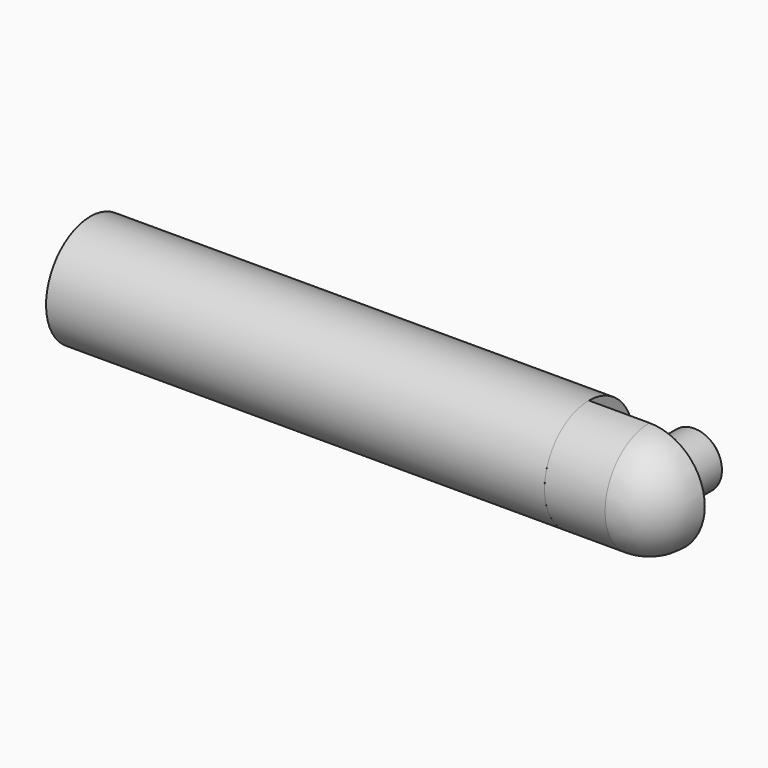
from build123d import *

# Parameters (mm, degrees)
F0_W     = 171.45
F0_H     = 19.05
F3_DEPTH = 20.828
F5_ANGLE = 90
F6_R     = 9.525
F7_DEPTH = 20.828
F8_SIZE  = 1.524


with BuildPart() as f1:
    # F0 (on Front) → F1 (revolve)
    with BuildSketch(Plane.XZ):
        Rectangle(F0_W, F0_H)
    revolve(axis=Axis((0, 0, -9.525), (1, 0, 0)))


with BuildPart() as f3:
    # F2 (on face) → F3 (new body)
    with BuildSketch(Plane.YZ.offset(85.725)):
        with BuildLine():
            Line((0, -28.575), (0, 9.525))
            ThreePointArc((0, 9.525), (-19.05, -9.525), (0, -28.575))
        make_face()
    extrude(amount=F3_DEPTH)

    # F4 (on face) → F5 (revolve)
    with BuildSketch(Plane.YZ.offset(106.553)):
        with BuildLine():
            ThreePointArc((0, 9.525), (-19.05, -9.525), (0, -28.575))
            Line((0, -28.575), (0, 9.525))
        make_face()
    revolve(axis=Axis((106.553, 0, -9.525), (0, 0, 1)), revolution_arc=F5_ANGLE)


with BuildPart() as f7:
    # F6 (on face) → F7 (new body)
    with BuildSketch(Plane(origin=(0, 0, 0), x_dir=(-1, 0, 0), z_dir=(0, 1, 0))):
        with Locations((-106.553, -9.525)):
            Circle(F6_R)
    extrude(amount=F7_DEPTH)

    # F8
    f8_edges = [f7.edges().sort_by_distance(p)[0] for p in [
        (116.078, 20.828, -9.525),
    ]]
    chamfer(f8_edges, length=F8_SIZE)


solid = Compound([f1.part, f3.part, f7.part])
